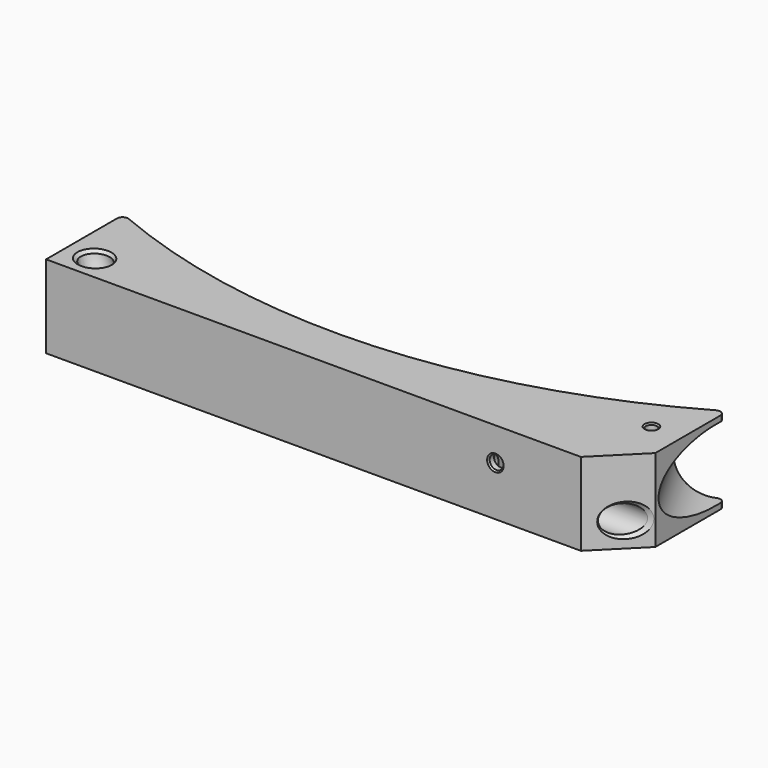
from build123d import *

# Parameters (mm, degrees)
CYLINDER006_R               = 2.5
CYLINDER006_DEPTH           = 35
BOX004_W                    = 20
BOX004_H                    = 52
BOX004_DEPTH                = 24
CYLINDER005_R               = 5
CYLINDER005_DEPTH           = 20
CYLINDER005_PLACEMENT_ANGLE = 46
CHAMFER001_SIZE             = 4
CYLINDER004_R               = 2.5
CYLINDER004_DEPTH           = 100
CYLINDER004_PLACEMENT_ANGLE = 46
CYLINDER002_R               = 2
CYLINDER002_DEPTH           = 100
BOX_W                       = 10
BOX_H                       = 40
BOX_DEPTH                   = 100
CYLINDER001_R               = 13
CYLINDER001_DEPTH           = 56
CYLINDER_R                  = 230
CYLINDER_DEPTH              = 100
FUSION_PLACEMENT_ANGLE      = 52.3
FUSION001_PLACEMENT_ANGLE   = 22.4
BOX001_W                    = 49
BOX001_H                    = 54
BOX001_DEPTH                = 100
CYLINDER003_R               = 5
CYLINDER003_DEPTH           = 300
TORUS_R                     = 5
BOX003_W                    = 39
BOX003_H                    = 50
BOX003_DEPTH                = 42
BOX002_W                    = 209
BOX002_H                    = 50
BOX002_DEPTH                = 30
CHAMFER_SIZE                = 15
FILLET_R                    = 2
CHAMFER002_SIZE             = 0.5
CHAMFER003_SIZE             = 1
CHAMFER004_SIZE             = 0.5
CHAMFER005_SIZE             = 1
CHAMFER006_SIZE             = 0.5


with BuildPart() as cylinder006:
    # Cylinder006 → Cylinder006 (new body)
    with BuildSketch(Plane(origin=(10, 0, 3), x_dir=(1, 0, 0), z_dir=(0, -1, 0))):
        Circle(CYLINDER006_R)
    extrude(amount=CYLINDER006_DEPTH)


with BuildPart() as fusion005:
    # Box004 → Box004 (new body)
    with BuildSketch(Plane(origin=(0, -13, -12), x_dir=(1, 0, 0), z_dir=(0, 0, 1))):
        with Locations((10, 26)):
            Rectangle(BOX004_W, BOX004_H)
    extrude(amount=BOX004_DEPTH)

    # Fusion005: union Cylinder006
    add(cylinder006.part)


with BuildPart() as fusion005_1:
    # Fusion005 placement: moved
    add(fusion005.part.moved(Location((61, 0, 0))))


with BuildPart() as chamfer001:
    # Cylinder005 → Cylinder005 (new body)
    with BuildSketch(Plane.XY):
        Circle(CYLINDER005_R)
    extrude(amount=CYLINDER005_DEPTH)


with BuildPart() as chamfer001_1:
    # Cylinder005 placement: moved
    add(chamfer001.part.moved(Location((-52, -8, -20))).rotate(Axis((-52, -8, -20), (0, -1, 0)), CYLINDER005_PLACEMENT_ANGLE))

    # Chamfer001
    chamfer001_edges = [chamfer001_1.edges().sort_by_distance(p)[0] for p in [
        (-69.860088, -8, -9.703532),
    ]]
    chamfer(chamfer001_edges, length=CHAMFER001_SIZE)


with BuildPart() as chamfer001_2:
    # Chamfer001 placement: moved
    add(chamfer001_1.part.moved(Location((-14, 0, 0))))


with BuildPart() as cylinder004:
    # Cylinder004 → Cylinder004 (new body)
    with BuildSketch(Plane.XY):
        Circle(CYLINDER004_R)
    extrude(amount=CYLINDER004_DEPTH)


with BuildPart() as cylinder004_1:
    # Cylinder004 placement: moved
    add(cylinder004.part.moved(Location((-66, -8, -20))).rotate(Axis((-66, -8, -20), (0, -1, 0)), CYLINDER004_PLACEMENT_ANGLE))


with BuildPart() as cylinder002:
    # Cylinder002 → Cylinder002 (new body)
    with BuildSketch(Plane(origin=(106, 11, -34), x_dir=(1, 0, 0), z_dir=(0, 0, 1))):
        Circle(CYLINDER002_R)
    extrude(amount=CYLINDER002_DEPTH)


with BuildPart() as obj1:
    # Box → Box (new body)
    with BuildSketch(Plane(origin=(1000, -30, -50), x_dir=(1, 0, 0), z_dir=(0, 0, 1))):
        with Locations((5, 20)):
            Rectangle(BOX_W, BOX_H)
    extrude(amount=BOX_DEPTH)


with BuildPart() as cylinder001:
    # Cylinder001 → Cylinder001 (new body)
    with BuildSketch(Plane.XZ.offset(-6)):
        Circle(CYLINDER001_R)
    extrude(amount=CYLINDER001_DEPTH)


with BuildPart() as fusion001:
    # Cylinder → Cylinder (new body)
    with BuildSketch(Plane(origin=(0, 230, -50), x_dir=(1, 0, 0), z_dir=(0, 0, 1))):
        Circle(CYLINDER_R)
    extrude(amount=CYLINDER_DEPTH)

    # Fusion: union Cylinder001
    add(cylinder001.part)


with BuildPart() as fusion001_1:
    # Fusion placement: moved
    add(fusion001.part.moved(Location((181.981413, 89.348781, 0))).rotate(Axis((181.981413, 89.348781, 0), (0, 0, 1)), FUSION_PLACEMENT_ANGLE))

    # Fusion001: union obj1
    add(obj1.part)


with BuildPart() as fusion001_2:
    # Fusion001 placement: moved
    add(fusion001_1.part.moved(Location((-87.646187, 17.354412, 0))).rotate(Axis((-87.646187, 17.354412, 0), (0, 0, -1)), FUSION001_PLACEMENT_ANGLE))


with BuildPart() as fusion002:
    # Box001 → Box001 (new body)
    with BuildSketch(Plane(origin=(-141, -28, -50), x_dir=(1, 0, 0), z_dir=(0, 0, 1))):
        with Locations((24.5, 27)):
            Rectangle(BOX001_W, BOX001_H)
    extrude(amount=BOX001_DEPTH)

    # Fusion002: union Fusion001
    add(fusion001_2.part)


with BuildPart() as cylinder003:
    # Cylinder003 → Cylinder003 (new body)
    with BuildSketch(Plane(origin=(-53, -7, 0), x_dir=(0, 0, -1), z_dir=(1, 0, 0))):
        Circle(CYLINDER003_R)
    extrude(amount=CYLINDER003_DEPTH)


with BuildPart() as torus:
    # Torus → Torus (revolve)
    with BuildSketch(Plane(origin=(-53, -7, 30), x_dir=(1, 0, 0), z_dir=(0, 0, -1))):
        with Locations((30, 0)):
            Circle(TORUS_R)
    revolve(axis=Axis((-53, -7, 30), (0, -1, 0)))


with BuildPart() as holes:
    # Box003 → Box003 (new body)
    with BuildSketch(Plane(origin=(-92, -16, -15), x_dir=(1, 0, 0), z_dir=(0, 0, 1))):
        with Locations((19.5, 25)):
            Rectangle(BOX003_W, BOX003_H)
    extrude(amount=BOX003_DEPTH)

    # Common: intersect Torus
    add(torus.part, mode=Mode.INTERSECT)

    # Fusion006: union Cylinder003
    add(cylinder003.part)


with BuildPart() as holes_1:
    # Fusion006 placement: moved
    add(holes.part.moved(Location((0, 0, -6))))

    # Fusion007: union Fusion005, Chamfer001, Cylinder004, Cylinder002, Fusion002
    add(fusion005_1.part)
    add(chamfer001_2.part)
    add(cylinder004_1.part)
    add(cylinder002.part)
    add(fusion002.part)


with BuildPart() as chamfer006:
    # Box002 → Box002 (new body)
    with BuildSketch(Plane(origin=(-92, -16, -15), x_dir=(1, 0, 0), z_dir=(0, 0, 1))):
        with Locations((104.5, 25)):
            Rectangle(BOX002_W, BOX002_H)
    extrude(amount=BOX002_DEPTH)

    # Chamfer
    chamfer_edges = [chamfer006.edges().sort_by_distance(p)[0] for p in [
        (117, -16, 0),
    ]]
    chamfer(chamfer_edges, length=CHAMFER_SIZE)

    # Cut: cut holes
    add(holes_1.part, mode=Mode.SUBTRACT)

    # Fillet
    fillet_edges = [chamfer006.edges().sort_by_distance(p)[0] for p in [
        (117, 31.982324, 13.856394),
        (117, 31.982324, -13.856394),
        (-92, 19.201518, 0),
    ]]
    fillet(fillet_edges, radius=FILLET_R)

    # Chamfer002
    chamfer002_edges = [chamfer006.edges().sort_by_distance(p)[0] for p in [
        (68.5, -16, 3),
        (68.5, -13, 3),
    ]]
    chamfer(chamfer002_edges, length=CHAMFER002_SIZE)

    # Chamfer003
    chamfer003_edges = [chamfer006.edges().sort_by_distance(p)[0] for p in [
        (-86.823069, -7, 15),
        (110.998637, -7.001363, -1),
    ]]
    chamfer(chamfer003_edges, length=CHAMFER003_SIZE)

    # Chamfer004
    chamfer004_edges = [chamfer006.edges().sort_by_distance(p)[0] for p in [
        (104, 11, 15),
        (104, 11, -15),
    ]]
    chamfer(chamfer004_edges, length=CHAMFER004_SIZE)

    # Chamfer005
    chamfer005_edges = [chamfer006.edges().sort_by_distance(p)[0] for p in [
        (-78.375432, -8.003753, -15),
    ]]
    chamfer(chamfer005_edges, length=CHAMFER005_SIZE)

    # Chamfer006
    chamfer006_edges = [chamfer006.edges().sort_by_distance(p)[0] for p in [
        (-92, -7.998647, 1.6325),
    ]]
    chamfer(chamfer006_edges, length=CHAMFER006_SIZE)


solid = chamfer006.part
